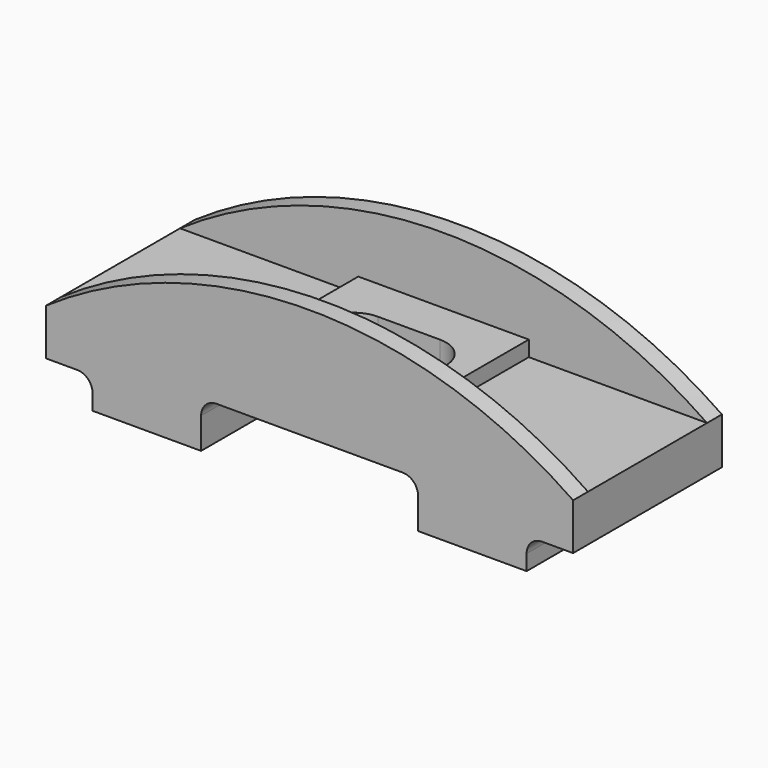
from build123d import *

# Parameters (mm, degrees)
F0_W      = 170
F0_H      = 30
F1_DEPTH  = 60
F3_DEPTH  = 60.001
F5_DEPTH  = 60.001
F6_W      = 57.5
F6_H      = 5
F7_DEPTH  = 60.001
F8_DEPTH  = 60.001
F10_DEPTH = 6
F12_DEPTH = 6
F14_DEPTH = 30.001


with BuildPart() as f1:
    # F0 (on Front) → F1 (new body)
    with BuildSketch(Plane.XZ):
        Rectangle(F0_W, F0_H)
    extrude(amount=F1_DEPTH)

    # F2 (on face) → F3 (cut, through all)
    with BuildSketch(Plane.XZ.offset(60)):
        with BuildLine():
            Line((30, 0), (-30, 0))
            ThreePointArc((-30, 0), (-33.535534, -1.464466), (-35, -5))
            Line((-35, -5), (-35, -15))
            Line((-35, -15), (35, -15))
            Line((35, -15), (35, -5))
            ThreePointArc((35, -5), (33.535534, -1.464466), (30, 0))
        make_face()
    extrude(amount=-F3_DEPTH, mode=Mode.SUBTRACT)

    # F4 (on face) → F5 (cut, through all)
    with BuildSketch(Plane.XZ.offset(60)):
        with BuildLine():
            Line((-85, -15), (-70, -15))
            Line((-70, -15), (-70, -10))
            ThreePointArc((-70, -10), (-71.464466, -6.464466), (-75, -5))
            Line((-75, -5), (-85, -5))
            Line((-85, -5), (-85, -15))
        make_face()
        with BuildLine():
            Line((70, -10), (70, -15))
            Line((70, -15), (85, -15))
            Line((85, -15), (85, -5))
            Line((85, -5), (75, -5))
            ThreePointArc((75, -5), (71.464466, -6.464466), (70, -10))
        make_face()
    extrude(amount=-F5_DEPTH, mode=Mode.SUBTRACT)

    # F6 (on face) → F7 (cut, through all)
    with BuildSketch(Plane.XZ.offset(60)):
        with Locations((56.25, 12.5)):
            Rectangle(F6_W, F6_H)
        with Locations((-56.25, 12.5)):
            Rectangle(F6_W, F6_H)
    extrude(amount=-F7_DEPTH, mode=Mode.SUBTRACT)

    # F6 (on face) → F8 (cut, through all)
    with BuildSketch(Plane.XZ.offset(60)):
        with Locations((56.25, 12.5)):
            Rectangle(F6_W, F6_H)
        with Locations((-56.25, 12.5)):
            Rectangle(F6_W, F6_H)
    extrude(amount=-F8_DEPTH, mode=Mode.SUBTRACT)

    # F9 (on face) → F10 (join)
    with BuildSketch(Plane.XZ.offset(60)):
        with BuildLine():
            Line((27.5, 10), (85, 10))
            ThreePointArc((85, 10), (0, 36.407929), (-85, 10))
            Line((-85, 10), (-27.5, 10))
            Line((-27.5, 10), (-27.5, 15))
            Line((-27.5, 15), (27.5, 15))
            Line((27.5, 15), (27.5, 10))
        make_face()
    extrude(amount=-F10_DEPTH)

    # F11 (on face) → F12 (join)
    with BuildSketch(Plane(origin=(0, 0, 0), x_dir=(-1, 0, 0), z_dir=(0, 1, 0))):
        with BuildLine():
            Line((27.5, 10), (85, 10))
            ThreePointArc((85, 10), (0, 36.407929), (-85, 10))
            Line((-85, 10), (-27.5, 10))
            Line((-27.5, 10), (-27.5, 15))
            Line((-27.5, 15), (27.5, 15))
            Line((27.5, 15), (27.5, 10))
        make_face()
    extrude(amount=-F12_DEPTH)

    # F13 (on face) → F14 (cut, through all)
    with BuildSketch(Plane.XY.offset(15)):
        with BuildLine():
            Line((10, -20), (-10, -20))
            ThreePointArc((-10, -20), (-20, -30), (-10, -40))
            Line((-10, -40), (10, -40))
            ThreePointArc((10, -40), (20, -30), (10, -20))
        make_face()
    extrude(amount=-F14_DEPTH, mode=Mode.SUBTRACT)


solid = f1.part
